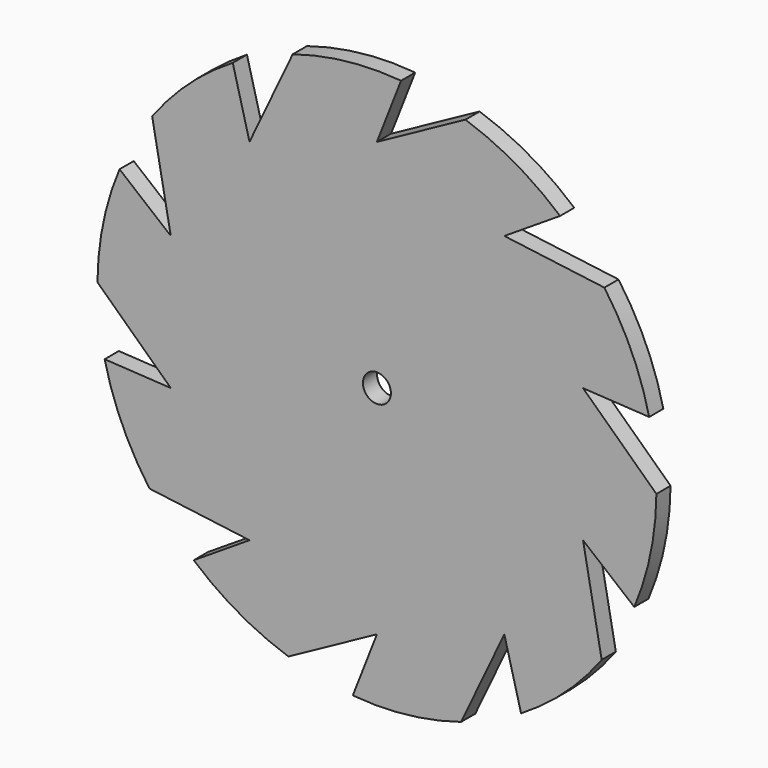
from build123d import *

# Parameters (mm, degrees)
F0_R     = 50
F1_DEPTH = 3.17
F2_R     = 2.5
F3_DEPTH = 25
F5_DEPTH = 25


with BuildPart() as f1:
    # F0 (on Front) → F1 (new body)
    with BuildSketch(Plane.XZ):
        Circle(F0_R)
    extrude(amount=F1_DEPTH)

    # F2 (on face) → F3 (cut)
    with BuildSketch(Plane.XZ.offset(3.17)):
        Circle(F2_R)
    extrude(amount=-F3_DEPTH, mode=Mode.SUBTRACT)

    # F4 (on face) → F5 (cut)
    with BuildSketch(Plane.XZ.offset(3.17)):
        with BuildLine():
            Line((-22.7931910082, 31.3721360136), (-15.0621287485, 47.6773769996))
            ThreePointArc((-15.0621287485, 47.6773769996), (-20.5685569707, 45.5733964517), (-25.7891029355, 42.8359915233))
            Line((-25.7891029355, 42.8359915233), (-22.7931910082, 31.3721360136))
        make_face()
        with BuildLine():
            Line((0, 38.7780927122), (15.8385409393, 47.4251053864))
            ThreePointArc((15.8385409393, 47.4251053864), (10.1470581921, 48.9595466691), (4.3145415402, 49.8134994886))
            Line((4.3145415402, 49.8134994886), (0, 38.7780927122))
        make_face()
        with BuildLine():
            ThreePointArc((40.6894263206, 29.0580554357), (36.9868420114, 33.6448141327), (32.7701777935, 37.7639437478))
            Line((32.7701777935, 37.7639437478), (22.7931910082, 31.3721360136))
            Line((22.7931910082, 31.3721360136), (40.6894263206, 29.0580554357))
        make_face()
        with BuildLine():
            ThreePointArc((50, 0), (49.6761310759, 5.6817252069), (48.7087199469, 11.2898450446))
            Line((48.7087199469, 11.2898450446), (36.8801577634, 11.9830896575))
            Line((36.8801577634, 11.9830896575), (49.9983338301, -0.4081840445))
            ThreePointArc((49.9983338301, -0.4081840445), (49.9995834558, -0.2040937225), (50, 0))
        make_face()
        with BuildLine():
            ThreePointArc((40.2095771974, -29.7185110934), (43.4276824703, -24.7797577725), (46.0421866292, -19.4965907379))
            Line((46.0421866292, -19.4965907379), (36.8801577634, -11.9830896575))
            Line((36.8801577634, -11.9830896575), (40.2095771974, -29.7185110934))
        make_face()
        with BuildLine():
            ThreePointArc((15.0621287485, -47.6773769996), (20.5685569707, -45.5733964517), (25.7891029355, -42.8359915233))
            Line((25.7891029355, -42.8359915233), (22.7931910082, -31.3721360136))
            Line((22.7931910082, -31.3721360136), (15.0621287485, -47.6773769996))
        make_face()
        with BuildLine():
            ThreePointArc((-15.8385409393, -47.4251053864), (-10.1470581921, -48.9595466691), (-4.3145415402, -49.8134994886))
            Line((-4.3145415402, -49.8134994886), (0, -38.7780927122))
            Line((0, -38.7780927122), (-15.8385409393, -47.4251053864))
        make_face()
        with BuildLine():
            Line((-22.7931910082, -31.3721360136), (-40.6894263206, -29.0580554357))
            ThreePointArc((-40.6894263206, -29.0580554357), (-36.9868420114, -33.6448141327), (-32.7701777935, -37.7639437478))
            Line((-32.7701777935, -37.7639437478), (-22.7931910082, -31.3721360136))
        make_face()
        with BuildLine():
            Line((-36.8801577634, -11.9830896575), (-49.9983338301, 0.4081840445))
            ThreePointArc((-49.9983338301, 0.4081840445), (-49.6989093188, -5.4789061428), (-48.7087199469, -11.2898450446))
            Line((-48.7087199469, -11.2898450446), (-36.8801577634, -11.9830896575))
        make_face()
        with BuildLine():
            Line((-36.8801577634, 11.9830896575), (-40.2095771974, 29.7185110934))
            ThreePointArc((-40.2095771974, 29.7185110934), (-43.4276824703, 24.7797577725), (-46.0421866292, 19.4965907379))
            Line((-46.0421866292, 19.4965907379), (-36.8801577634, 11.9830896575))
        make_face()
    extrude(amount=-F5_DEPTH, mode=Mode.SUBTRACT)


solid = f1.part
